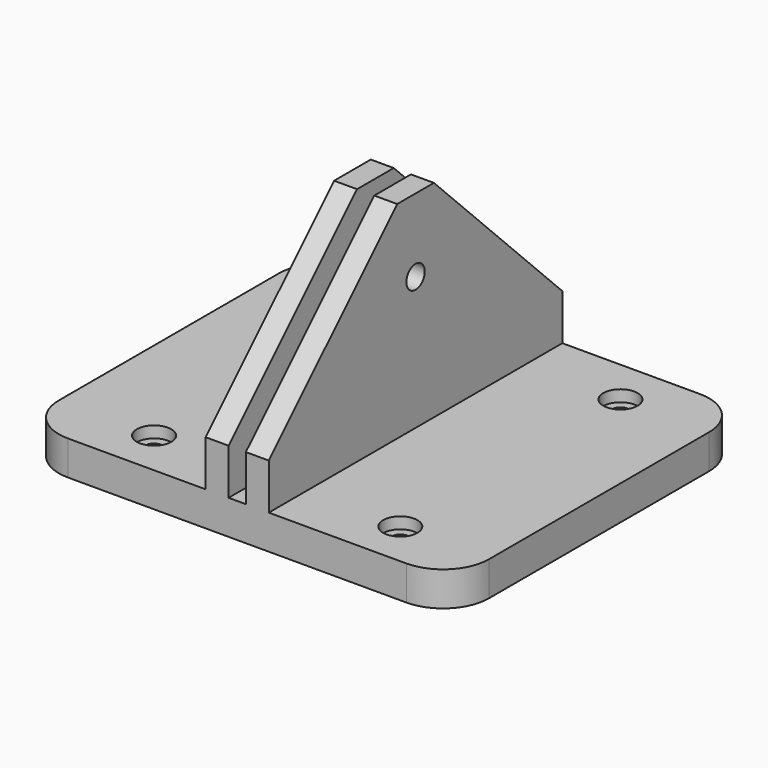
from build123d import *

# Parameters (mm, degrees)
F1_DEPTH       = 101.6
F3_D           = 4.7752
F3_CBORE_D     = 9.525
F3_CBORE_DEPTH = 3.175
F5_D           = 4.7752
F5_CBORE_D     = 9.525
F5_CBORE_DEPTH = 3.175
F7_D           = 6.35
F8_SIZE        = 44.45
F9_R           = 12.7


with BuildPart() as f1:
    # F0 (on Front) → F1 (new body)
    with BuildSketch(Plane.XZ):
        Polygon((0, 9.525), (0, 0), (119.0752, 0), (119.0752, 9.525), (68.2752, 9.525), (68.2752, 66.675), (61.9252, 66.675), (61.9252, 9.525), (57.15, 9.525), (57.15, 66.675), (50.8, 66.675), (50.8, 9.525), align=None)
    extrude(amount=F1_DEPTH)

    # F3 (through all)
    with Locations(Plane.XY.offset(9.525)):
        with Locations((26.361667, -12.7), (26.361667, -88.9)):
            CounterBoreHole(F3_D / 2, F3_CBORE_D / 2, F3_CBORE_DEPTH)

    # F5 (through all)
    with Locations(Plane.XY.offset(9.525)):
        with Locations((94.527818, -12.7), (94.527818, -88.9)):
            CounterBoreHole(F5_D / 2, F5_CBORE_D / 2, F5_CBORE_DEPTH)

    # F7 (through all)
    with Locations(Plane(origin=(50.8, 0, 0), x_dir=(0, -1, 0), z_dir=(-1, 0, 0))):
        with Locations((50.8, 46.355)):
            Hole(F7_D / 2)

    # F8
    f8_edges = [f1.edges().sort_by_distance(p)[0] for p in [
        (53.975, 0, 66.675),
        (53.975, -101.6, 66.675),
        (65.1002, 0, 66.675),
        (65.1002, -101.6, 66.675),
    ]]
    chamfer(f8_edges, length=F8_SIZE)

    # F9
    f9_edges = [f1.edges().sort_by_distance(p)[0] for p in [
        (0, 0, 4.7625),
        (0, -101.6, 4.7625),
        (119.0752, -101.6, 4.7625),
        (119.0752, 0, 4.7625),
    ]]
    fillet(f9_edges, radius=F9_R)


solid = f1.part
